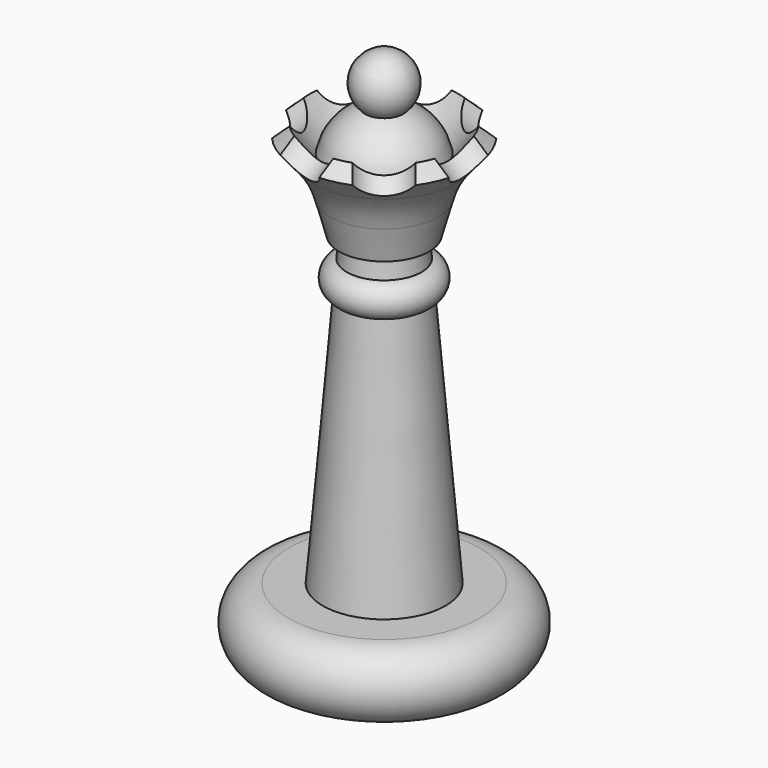
from build123d import *

# Parameters (mm, degrees)
CYLINDER_R           = 2
CYLINDER_DEPTH       = 4
CYLINDER_PITCH_ANGLE = -49
ARRAY002_COUNT       = 7
SKETCH025_R          = 3.05
POCKET006_DEPTH      = 3.1


with BuildPart() as array002:
    # Cylinder → Cylinder (new body)
    with BuildSketch(Plane.XY):
        Circle(CYLINDER_R)
    extrude(amount=CYLINDER_DEPTH)


with BuildPart() as array002_1:
    # Cylinder pitch: moved
    add(array002.part.rotate(Axis((0, 0, 0), (0, 1, 0)), CYLINDER_PITCH_ANGLE))


with BuildPart() as array002_2:
    # Cylinder placement: moved
    add(array002_1.part.moved(Location((8, 0, 33.5))))

    # Array002: Array002 ×7 about axis
    array002_axis = Axis((0, 0, 0), (0, 0, 1))


with BuildPart() as array002_3:
    add(array002_2.part)
    for i in range(1, ARRAY002_COUNT):
        add(array002_2.part.rotate(array002_axis, i * 360 / ARRAY002_COUNT))


with BuildPart() as cut:
    # Sketch004 → Revolution001003 (revolve)
    with BuildSketch(Plane.XZ):
        with BuildLine():
            Line((5.450337, 34.817464), (6.437731, 33.911287))
            Line((5.300568, 32.543996), (6.437731, 33.911287))
            ThreePointArc((5.300568, 32.543996), (4.487536, 31.307223), (3.970154, 29.920521))
            Line((3.970154, 29.920521), (3.300919, 27.482554))
            Line((1.685944, 26.796302), (3.300919, 27.482554))
            Line((0.665482, 28.426435), (1.685944, 26.796302))
            Line((0.665482, 28.426435), (5.450337, 34.817464))
        make_face()
    revolve(axis=Axis((0, 0, 0), (0, 0, 1)))

    # Cut: cut Array002
    add(array002_3.part, mode=Mode.SUBTRACT)


with BuildPart() as revolution001002:
    # Sketch003 → Revolution001002 (revolve)
    with BuildSketch(Plane.XZ):
        with BuildLine():
            Line((0, 0), (7, 0))
            ThreePointArc((7, 0), (9.5, 2.5), (7, 5))
            Line((7, 5), (0, 5))
            Line((0, 5), (0, 0))
        make_face()
        with BuildLine():
            Line((0, 5), (4.5, 5))
            Line((4.5, 5), (2.5, 28.877501))
            ThreePointArc((2.5, 28.877501), (3.949684, 32.632456), (1.4, 35.746999))
            ThreePointArc((1.4, 35.746999), (1.961762, 38.061573), (0, 39.412246))
            Line((0, 5), (0, 39.412246))
        make_face()
    revolve(axis=Axis((0, 0, 0), (0, 0, 1)))


with BuildPart() as pocket006:
    # Sketch005 → Revolution002 (revolve)
    with BuildSketch(Plane.XZ):
        with BuildLine():
            Line((0, 0), (2.5, 0))
            Line((2.5, 23.5), (2.5, 0))
            ThreePointArc((2.5, 23.5), (3.75, 24.75), (2.5, 26))
            Line((2.5, 26), (0, 26))
            Line((0, 26), (0, 0))
        make_face()
    revolve(axis=Axis((0, 0, 0), (0, 0, 1)))

    # Fusion: union Cut, Revolution001002
    add(cut.part)
    add(revolution001002.part)


with BuildPart() as pocket006_1:
    # Fusion placement: moved
    add(pocket006.part.moved(Location((90, 0, 0))))

    # Sketch025 → Pocket006 (cut)
    with BuildSketch(Plane(origin=(90, 0, 0), x_dir=(1, 0, 0), z_dir=(0, 0, -1))):
        Circle(SKETCH025_R)
    extrude(amount=-POCKET006_DEPTH, mode=Mode.SUBTRACT)


solid = pocket006_1.part
